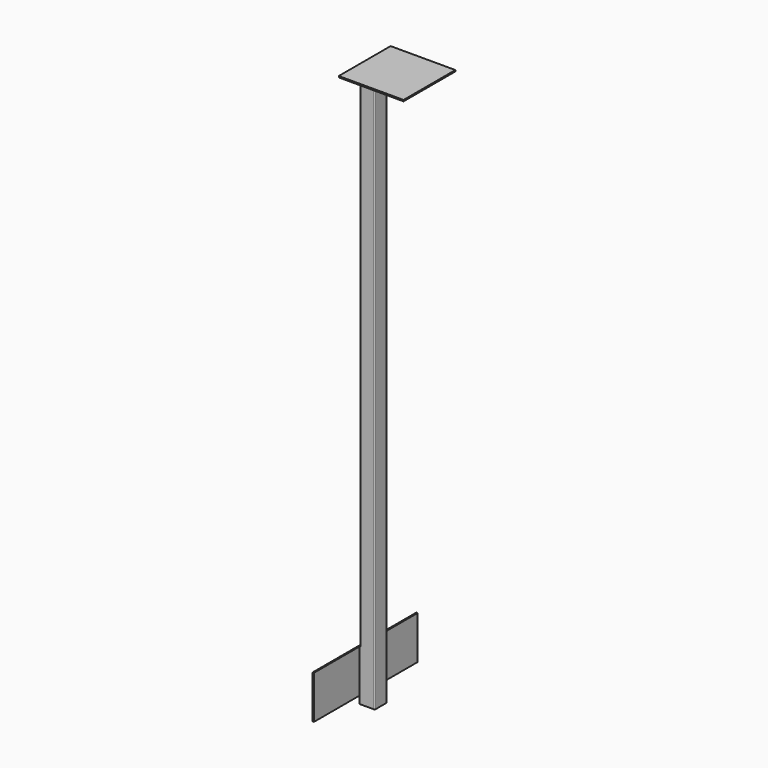
from build123d import *

# Parameters (mm, degrees)
F0_W     = 70
F0_H     = 2600
F1_DEPTH = 70
F2_W     = 60
F2_H     = 60
F3_DEPTH = 2600
F4_W     = 600
F4_H     = 200
F5_DEPTH = 6
F6_R     = 5
F7_W     = 300
F7_H     = 300
F8_DEPTH = 6


with BuildPart() as f1:
    # F0 (on Front) → F1 (new body)
    with BuildSketch(Plane.XZ):
        with Locations((-20.9116117656, 1237.1002838016)):
            Rectangle(F0_W, F0_H)
    extrude(amount=F1_DEPTH)

    # F2 (on face) → F3 (cut, through all)
    with BuildSketch(Plane(origin=(0, 0, -62.8997161984), x_dir=(1, 0, 0), z_dir=(0, 0, -1))):
        with Locations((-20.9116117656, 35)):
            Rectangle(F2_W, F2_H)
    extrude(amount=-F3_DEPTH, mode=Mode.SUBTRACT)

    # F4 (on face) → F5 (join)
    with BuildSketch(Plane(origin=(-55.9116117656, 0, 0), x_dir=(0, -1, 0), z_dir=(-1, 0, 0))):
        with Locations((35, 72.1002838016)):
            Rectangle(F4_W, F4_H)
    extrude(amount=F5_DEPTH)

    # F6
    f6_edges = [f1.edges().sort_by_distance(p)[0] for p in [
        (14.088388, 0, 1237.100284),
        (14.088388, -70, 1237.100284),
        (-55.911612, 0, 1354.600284),
        (-55.911612, -70, 1354.600284),
    ]]
    fillet(f6_edges, radius=F6_R)

    # F7 (on face) → F8 (join)
    with BuildSketch(Plane.XY.offset(2537.1002838016)):
        with Locations((89.0883882344, -35)):
            Rectangle(F7_W, F7_H)
    extrude(amount=F8_DEPTH)


solid = f1.part
